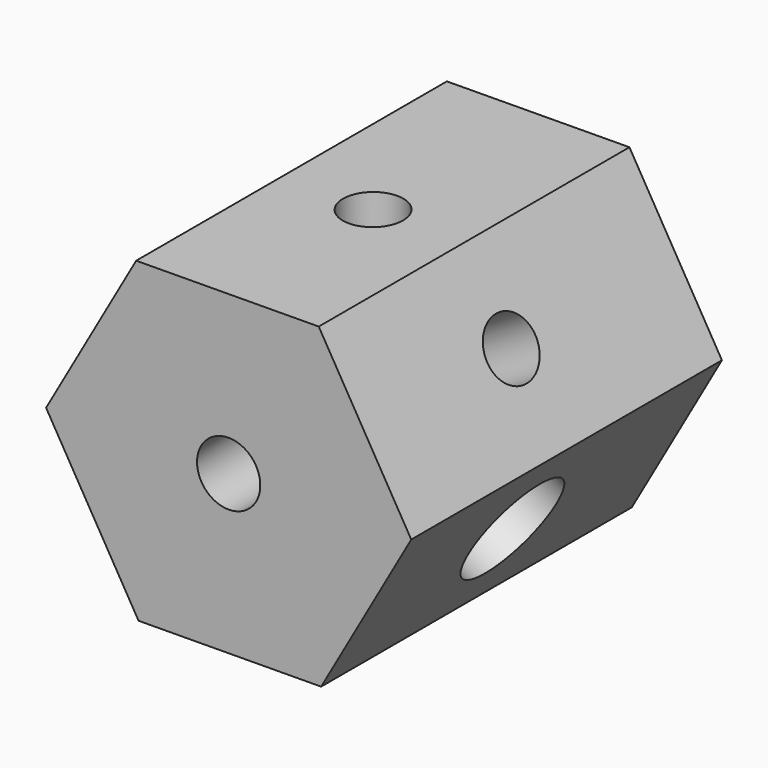
from build123d import *

# Parameters (mm, degrees)
F1_DEPTH = 31.1912
F2_D     = 12.7
F2_DEPTH = 20.7264
F2_TIP   = 3.8154649308
F3_D     = 5.08
F5_D     = 4.826
F7_D     = 4.826
F9_D     = 8.89


with BuildPart() as f1:
    # F0 (on Front) → F1 (new body)
    with BuildSketch(Plane.XZ):
        Polygon((-14.664275678, -0.1111403284), (-7.2358874912, -12.7552054295), (7.4283881868, -12.644065101), (14.664275678, 0.1111403284), (7.2358874912, 12.7552054295), (-7.4283881868, 12.644065101), align=None)
    extrude(amount=F1_DEPTH)

    # F2
    with Locations(Plane(origin=(0, 0, 0), x_dir=(1, 0, 0), z_dir=(0, 1, 0))):
        with Locations((0, 0)):
            Hole(F2_D / 2, depth=F2_DEPTH)
            with Locations((0, 0, -(F2_DEPTH + F2_TIP / 2))):  # 118° drill point
                Cone(0, F2_D / 2, F2_TIP, mode=Mode.SUBTRACT)

    # F3 (through all)
    with Locations(Plane(origin=(0, 0, 0), x_dir=(1, 0, 0), z_dir=(0, 1, 0))):
        with Locations((0, 0)):
            Hole(F3_D / 2)

    # F5 (through all)
    with Locations(Plane(origin=(10.9500815846, 0, 6.4331728789), x_dir=(0, 1, 0), z_dir=(0.8622111484, 0, 0.5065490456))):
        with Locations((-16.51, 0)):
            Hole(F5_D / 2)

    # F7 (through all)
    with Locations(Plane(origin=(-0.0962503478, 0, 12.6996352653), x_dir=(0.9999712807, 0, 0.0075787675), z_dir=(-0.0075787675, 0, 0.9999712807))):
        with Locations((0, -16.5757257491)):
            Hole(F7_D / 2)

    # F9 (through all)
    with Locations(Plane(origin=(11.0463319324, 0, -6.2664623863), x_dir=(0, 1, 0), z_dir=(0.8697899159, 0, -0.4934222351))):
        with Locations((-16.51, 0)):
            Hole(F9_D / 2)


solid = f1.part
